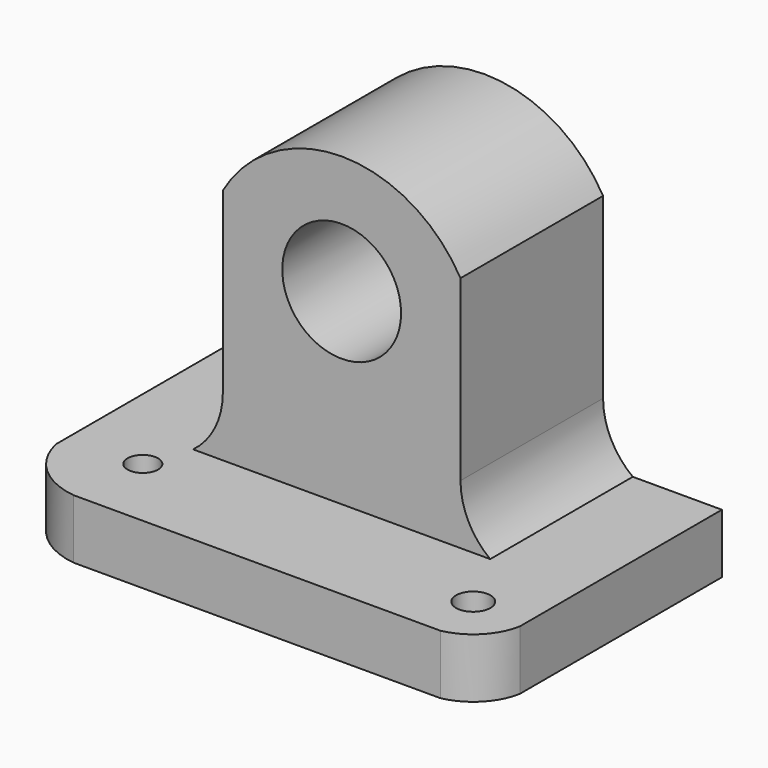
from build123d import *

# Parameters (mm, degrees)
F0_W      = 50.8
F0_H      = 44.45
F1_DEPTH  = 31.75
F2_W      = 50.8
F2_H      = 12.7
F3_DEPTH  = 38.1
F5_DEPTH  = 25.4
F7_DEPTH  = 25.4
F8_R      = 6.35
F9_DEPTH  = 25.4
F11_DEPTH = 25.4
F12_R     = 1.8359706644
F12_R_2   = 1.6334944076
F13_DEPTH = 25.4


with BuildPart() as f1:
    # F0 (on Front) → F1 (new body)
    with BuildSketch(Plane.XZ):
        with Locations((25.4, 22.225)):
            Rectangle(F0_W, F0_H)
    extrude(amount=F1_DEPTH)

    # F2 (on face) → F3 (cut)
    with BuildSketch(Plane.XY.offset(44.45)):
        with Locations((25.4, -25.4)):
            Rectangle(F2_W, F2_H)
    extrude(amount=-F3_DEPTH, mode=Mode.SUBTRACT)

    # F4 (on face) → F5 (cut)
    with BuildSketch(Plane.XZ.offset(19.05)):
        with BuildLine():
            Line((12.7, 12.7), (12.7, 44.45))
            Line((12.7, 44.45), (0, 44.45))
            Line((0, 44.45), (0, 6.35))
            Line((0, 6.35), (9.525, 6.35))
            ThreePointArc((9.525, 6.35), (11.8620158286, 9.1502420857), (12.7, 12.7))
        make_face()
        with BuildLine():
            Line((50.8, 44.45), (38.1, 44.45))
            Line((38.1, 44.45), (38.1, 12.7))
            ThreePointArc((38.1, 12.7), (38.9379841714, 9.1502420857), (41.275, 6.35))
            Line((41.275, 6.35), (50.8, 6.35))
            Line((50.8, 6.35), (50.8, 44.45))
        make_face()
    extrude(amount=-F5_DEPTH, mode=Mode.SUBTRACT)

    # F6 (on face) → F7 (cut)
    with BuildSketch(Plane.XZ.offset(19.05)):
        with BuildLine():
            ThreePointArc((12.7, 31.75), (25.4, 39.0829550295), (38.1, 31.75))
            Line((38.1, 31.75), (38.1, 44.45))
            Line((38.1, 44.45), (12.7, 44.45))
            Line((12.7, 44.45), (12.7, 31.75))
        make_face()
    extrude(amount=-F7_DEPTH, mode=Mode.SUBTRACT)

    # F8 (on face) → F9 (cut)
    with BuildSketch(Plane.XZ.offset(19.05)):
        with Locations((25.4, 26.3829550295)):
            Circle(F8_R)
    extrude(amount=-F9_DEPTH, mode=Mode.SUBTRACT)

    # F10 (on face) → F11 (cut)
    with BuildSketch(Plane.XY.offset(6.35)):
        with BuildLine():
            ThreePointArc((6.9156312384, -31.75), (2.4537189806, -29.7044848728), (0, -25.4533607513))
            Line((0, -25.4533607513), (0, -31.75))
            Line((0, -31.75), (6.9156312384, -31.75))
        make_face()
        with BuildLine():
            ThreePointArc((50.8, -26.9937257878), (49.186939224, -30.097358798), (46.1042001843, -31.75))
            Line((46.1042001843, -31.75), (50.8, -31.75))
            Line((50.8, -31.75), (50.8, -26.9937257878))
        make_face()
    extrude(amount=-F11_DEPTH, mode=Mode.SUBTRACT)

    # F12 (on face) → F13 (cut)
    with BuildSketch(Plane.XY.offset(6.35)):
        with Locations((44.9713739546, -25.9353929963)):
            Circle(F12_R)
        with Locations((7.8915055924, -23.7321358982)):
            Circle(F12_R_2)
    extrude(amount=-F13_DEPTH, mode=Mode.SUBTRACT)


solid = f1.part
